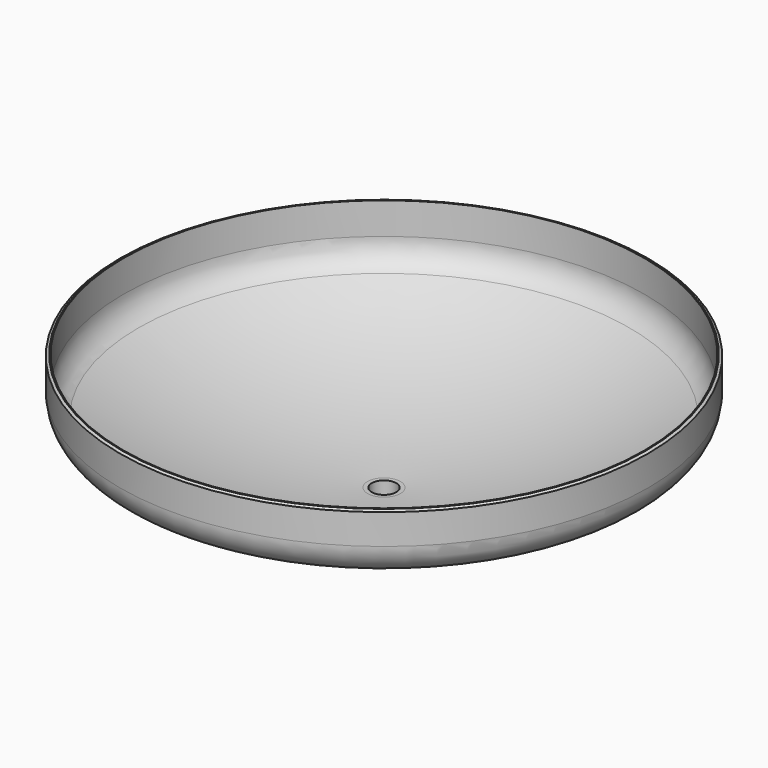
from build123d import *

# Parameters (mm, degrees)
F3_R     = 44.45
F3_R_2   = 33.32
F4_DEPTH = 247.8534572664
F5_DEPTH = 350


with BuildPart() as f1:
    # F0 (on Front) → F1 (revolve)
    with BuildSketch(Plane.XZ):
        with BuildLine():
            Line((-716, 81.9585481157), (-716, 0))
            ThreePointArc((-716, 0), (-703.6808103428, -44.3524315818), (-670.2526002972, -75.9982116192))
            ThreePointArc((-670.2526002972, -75.9982116192), (-345.316734424, -200.2807281831), (0, -242.5396181461))
            Line((0, -242.5396181461), (0, -232.5396181461))
            ThreePointArc((0, -232.5396181461), (-342.9053047144, -190.5758321632), (-665.5720653789, -67.1612102681))
            ThreePointArc((-665.5720653789, -67.1612102681), (-695.1132742565, -39.1951720956), (-706, 0))
            Line((-706, 0), (-706, 86))
            Line((-706, 86), (-709, 86))
            Line((-709, 86), (-716, 81.9585481157))
        make_face()
    revolve(axis=Axis((0, 0, -20.1172269881), (0, 0, 1)))

    # F3 (on Top) → F4 (cut, through all)
    with BuildSketch(Plane.XY):
        Circle(F3_R)
        Circle(F3_R_2, mode=Mode.SUBTRACT)
        Circle(F3_R_2)
    extrude(amount=-F4_DEPTH, mode=Mode.SUBTRACT)


with BuildPart() as f2:
    # F0 (on Front) → F2 (revolve)
    with BuildSketch(Plane.XZ):
        with BuildLine():
            ThreePointArc((63.5, -241.1310168341), (53.9761957448, -241.5219975949), (44.45, -241.8495767155))
            Line((44.45, -241.8495767155), (44.45, -247.8524572664))
            ThreePointArc((44.45, -247.8524572664), (53.9761857728, -247.5262469529), (63.5, -247.13689992))
            Line((63.5, -247.13689992), (63.5, -241.1310168341))
        make_face()
    revolve(axis=Axis((0, 0, -116.2698090731), (0, 0, 1)))


with BuildPart() as f5:
    # F3 (on Top) → F5 (new body)
    with BuildSketch(Plane.XY):
        Circle(F3_R)
        Circle(F3_R_2, mode=Mode.SUBTRACT)
    extrude(amount=-F5_DEPTH)

    # F0 (on Front) → F6 (revolve, cut)
    with BuildSketch(Plane.XZ):
        with BuildLine():
            Line((0, 0), (0, -232.5396181461))
            ThreePointArc((0, -232.5396181461), (342.9053047144, -190.5758321632), (665.5720653789, -67.1612102681))
            ThreePointArc((665.5720653789, -67.1612102681), (695.1132742565, -39.1951720956), (706, 0))
            Line((706, 0), (0, 0))
        make_face()
    revolve(axis=Axis((0, 0, -116.2698090731), (0, 0, 1)), mode=Mode.SUBTRACT)


solid = Compound([f1.part, f2.part, f5.part])
